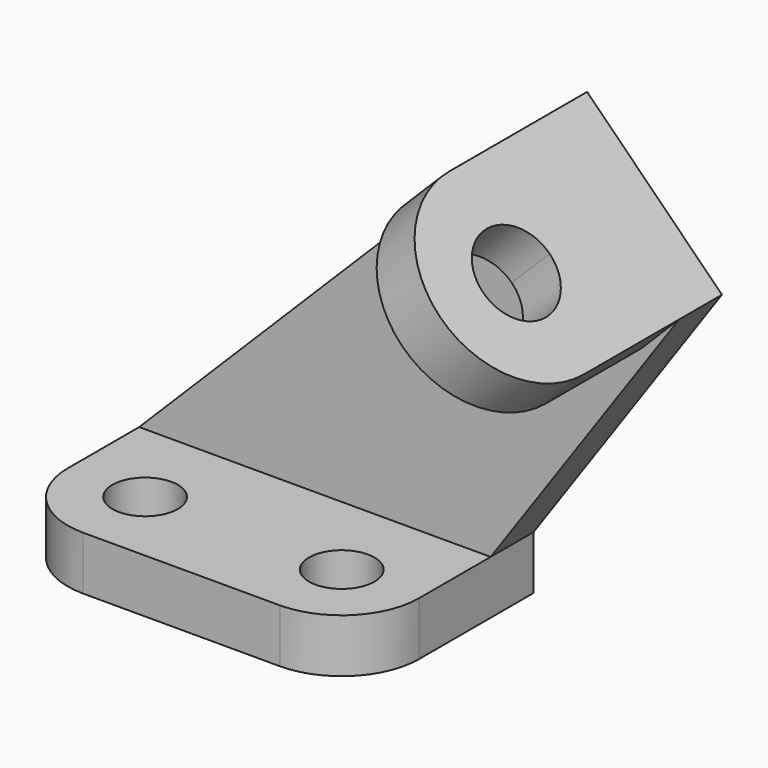
from build123d import *

# Parameters (mm, degrees)
F0_R     = 5.5
F1_DEPTH = 9
F2_W     = 59
F2_H     = 9
F3_DEPTH = 9
F5_DEPTH = 9


with BuildPart() as f1:
    # F0 (on Top) → F1 (new body)
    with BuildSketch(Plane.XY):
        with BuildLine():
            Line((59, 0), (0, 0))
            Line((0, 0), (0, -15))
            ThreePointArc((0, -15), (3.8076118446, -24.1923881554), (13, -28))
            Line((13, -28), (46, -28))
            ThreePointArc((46, -28), (55.1923881554, -24.1923881554), (59, -15))
            Line((59, -15), (59, 0))
        make_face()
        with Locations((13, -15)):
            Circle(F0_R, mode=Mode.SUBTRACT)
        with Locations((46, -15)):
            Circle(F0_R, mode=Mode.SUBTRACT)
    extrude(amount=-F1_DEPTH)

    # F2 (on face) → F3 (join)
    with BuildSketch(Plane(origin=(0, 0, 0), x_dir=(-1, 0, 0), z_dir=(0, 1, 0))):
        with Locations((-29.5, -4.5)):
            Rectangle(F2_W, F2_H)
        Polygon((0, 0), (-68, 68), (-90.627416998, 45.372583002), (-59, 0), align=None)
    extrude(amount=F3_DEPTH)

    # F4 (on face) → F5 (join)
    with BuildSketch(Plane(origin=(68, 0, 68), x_dir=(0, 1, 0), z_dir=(0.7071067812, 0, 0.7071067812))):
        with BuildLine():
            Line((0, -32), (0, 0))
            Line((0, 0), (-20, 0))
            Line((-20, 0), (-20, -9))
            ThreePointArc((-20, -9), (-15.0502525317, -11.0502525317), (-13, -16))
            ThreePointArc((-13, -16), (-15.0502525317, -20.9497474683), (-20, -23))
            Line((-20, -23), (-20, -32))
            Line((-20, -32), (0, -32))
        make_face()
        with BuildLine():
            Line((-20, -9), (-20, 0))
            ThreePointArc((-20, 0), (-36, -16), (-20, -32))
            Line((-20, -32), (-20, -23))
            ThreePointArc((-20, -23), (-27, -16), (-20, -9))
        make_face()
    extrude(amount=-F5_DEPTH)


solid = f1.part
